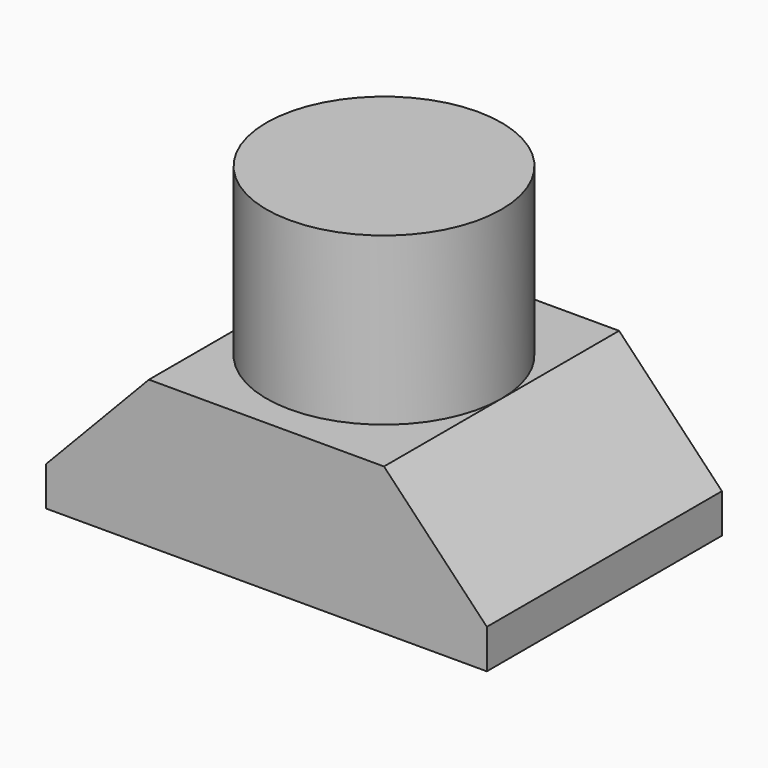
from build123d import *

# Parameters (mm, degrees)
F1_DEPTH = 25.4
F2_DEPTH = 762
F3_R     = 304.8
F4_DEPTH = 431.8


with BuildPart() as f1:
    # F0 (on Front) → F1 (new body)
    with BuildSketch(Plane.XZ):
        Polygon((571.5, -88.9), (304.8, 190.5), (-304.8, 190.5), (-571.5, -88.9), (-571.5, -190.5), (571.5, -190.5), align=None)
    extrude(amount=F1_DEPTH)

    # F0 (on Front) → F2 (join)
    with BuildSketch(Plane.XZ):
        Polygon((571.5, -88.9), (304.8, 190.5), (-304.8, 190.5), (-571.5, -88.9), (-571.5, -190.5), (571.5, -190.5), align=None)
    extrude(amount=F2_DEPTH)

    # F3 (on face) → F4 (join)
    with BuildSketch(Plane.XY.offset(190.5)):
        with Locations((0, -381)):
            Circle(F3_R)
        with BuildLine():
            ThreePointArc((-304.8, -381), (0, -685.8), (304.8, -381))
            ThreePointArc((304.8, -381), (0, -76.2), (-304.8, -381))
        make_face()
    extrude(amount=F4_DEPTH)


solid = f1.part
